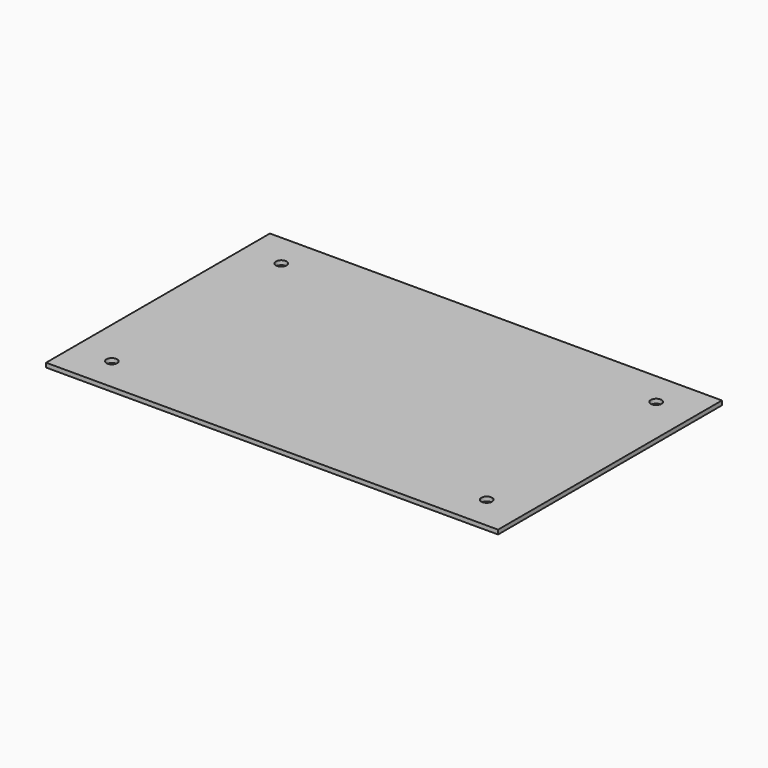
from build123d import *

# Parameters (mm, degrees)
SKETCH_W  = 105
SKETCH_H  = 65
SKETCH_R  = 1.25
PAD_DEPTH = 1


with BuildPart() as part:
    # Sketch → Pad (new body)
    with BuildSketch(Plane.XY):
        Rectangle(SKETCH_W, SKETCH_H)
        with Locations((43.54, 24.605)):
            Circle(SKETCH_R, mode=Mode.SUBTRACT)
        with Locations((-43.54, 24.605)):
            Circle(SKETCH_R, mode=Mode.SUBTRACT)
        with Locations((-43.54, -24.605)):
            Circle(SKETCH_R, mode=Mode.SUBTRACT)
        with Locations((43.54, -24.605)):
            Circle(SKETCH_R, mode=Mode.SUBTRACT)
    extrude(amount=PAD_DEPTH)


solid = part.part
